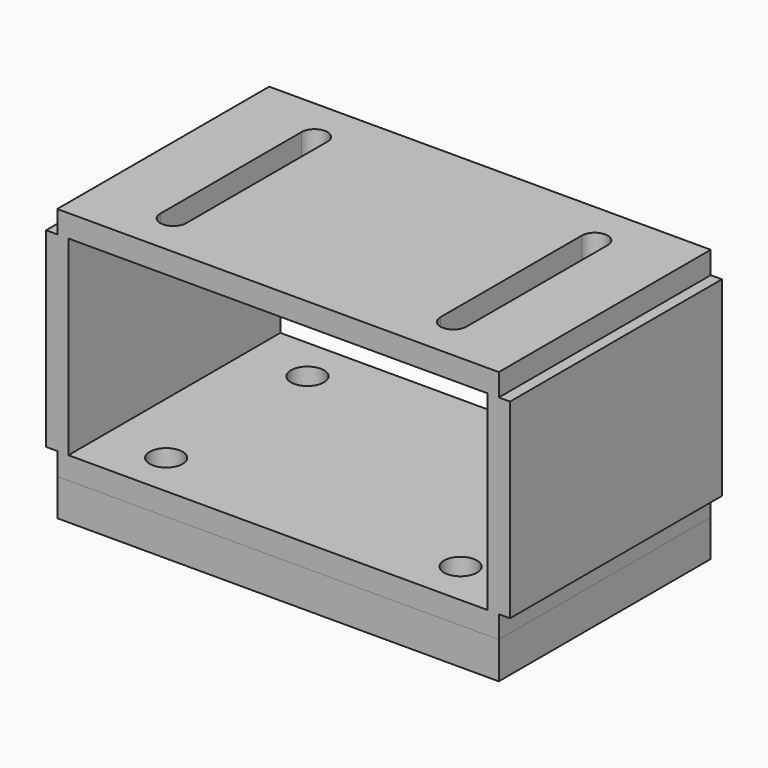
from build123d import *

# Parameters (mm, degrees)
F0_W     = 190.5
F0_H     = 114.3
F0_R     = 7.112
F1_DEPTH = 9.652
F3_W     = 190.5
F3_H     = 114.3
F4_DEPTH = 9.652
F5_W     = 114.3
F5_H     = 82.296
F6_DEPTH = 4.826
F8_W     = 190.5
F8_H     = 114.3
F9_DEPTH = 15.875
F10_D    = 13.49248


with BuildPart() as f1:
    # F0 (on Top) → F1 (new body)
    with BuildSketch(Plane.XY):
        Rectangle(F0_W, F0_H)
        with Locations((-63.5, -38.1)):
            Circle(F0_R, mode=Mode.SUBTRACT)
        with Locations((63.5, -38.1)):
            Circle(F0_R, mode=Mode.SUBTRACT)
        with Locations((-63.5, 38.1)):
            Circle(F0_R, mode=Mode.SUBTRACT)
        with Locations((63.5, 38.1)):
            Circle(F0_R, mode=Mode.SUBTRACT)
    extrude(amount=F1_DEPTH)



with BuildPart() as f4:
    # F3 (on offset) → F4 (new body)
    with BuildSketch(Plane.XY.offset(101.6)):
        Rectangle(F3_W, F3_H)
        with BuildLine():
            Line((-66.04, -38.1), (-66.04, 38.1))
            ThreePointArc((-66.04, 38.1), (-60.452, 43.688), (-54.864, 38.1))
            Line((-54.864, 38.1), (-54.864, -38.1))
            ThreePointArc((-54.864, -38.1), (-60.452, -43.688), (-66.04, -38.1))
        make_face(mode=Mode.SUBTRACT)
        with BuildLine():
            ThreePointArc((54.864, 38.1), (60.452, 43.688), (66.04, 38.1))
            Line((66.04, 38.1), (66.04, -38.1))
            ThreePointArc((66.04, -38.1), (60.452, -43.688), (54.864, -38.1))
            Line((54.864, -38.1), (54.864, 38.1))
        make_face(mode=Mode.SUBTRACT)
    extrude(amount=-F4_DEPTH)


with BuildPart() as f1_1:
    add(f1.part)

    add(f4.part)  # F6 merges F4
    # F5 (on face) → F6 (join, symmetric)
    with BuildSketch(Plane(origin=(-95.25, 0, 0), x_dir=(0, -1, 0), z_dir=(-1, 0, 0))):
        with Locations((0, 50.8)):
            Rectangle(F5_W, F5_H)
    extrude(amount=F6_DEPTH, both=True)

    # F7: F1 across plane


with BuildPart() as f1_2:
    add(f1_1.part)
    add(f1_1.part.mirror(Plane.YZ))


with BuildPart() as f9:
    # F8 (on face) → F9 (new body)
    with BuildSketch(Plane(origin=(0, 0, 0), x_dir=(1, 0, 0), z_dir=(0, 0, -1))):
        Rectangle(F8_W, F8_H)
    extrude(amount=F9_DEPTH)

    # F10 (through all)
    with Locations(Plane.XY):
        with Locations((-63.5, 38.1), (63.5, 38.1), (63.5, -38.1), (-63.5, -38.1)):
            Hole(F10_D / 2)


solid = Compound([f1_2.part, f9.part])
